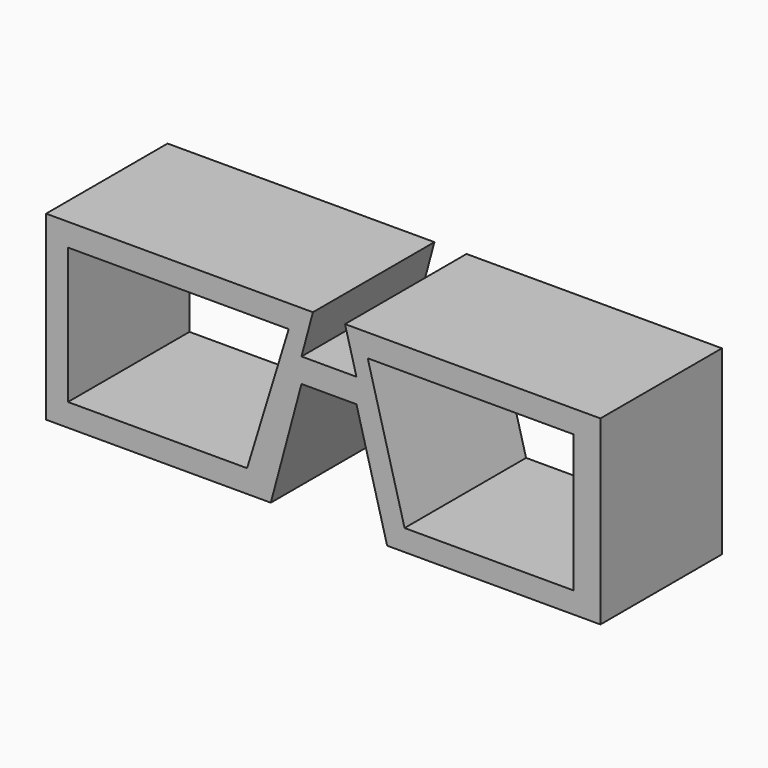
from build123d import *

# Parameters (mm, degrees)
F1_DEPTH = 25


with BuildPart() as f1:
    # F0 (on Front) → F1 (new body)
    with BuildSketch(Plane.XZ):
        Polygon((42.044164, -7.025787), (43.926718, 0), (0, 0), (0, -29.861876), (36.991882, -29.861876), (42.044164, -11.006502), (51.090819, -11.006502), (56.143101, -29.861876), (91.252429, -29.861876), (91.252429, 0), (49.208265, 0), (51.090819, -7.025787), align=None)
        Polygon((3.600854, -26.124269), (3.600854, -3.742162), (39.94265, -3.742162), (33.090983, -26.124269), align=None, mode=Mode.SUBTRACT)
        Polygon((52.949521, -3.742162), (86.779835, -3.742162), (86.779835, -26.366743), (59.011759, -26.366743), align=None, mode=Mode.SUBTRACT)
    extrude(amount=F1_DEPTH)


solid = f1.part
